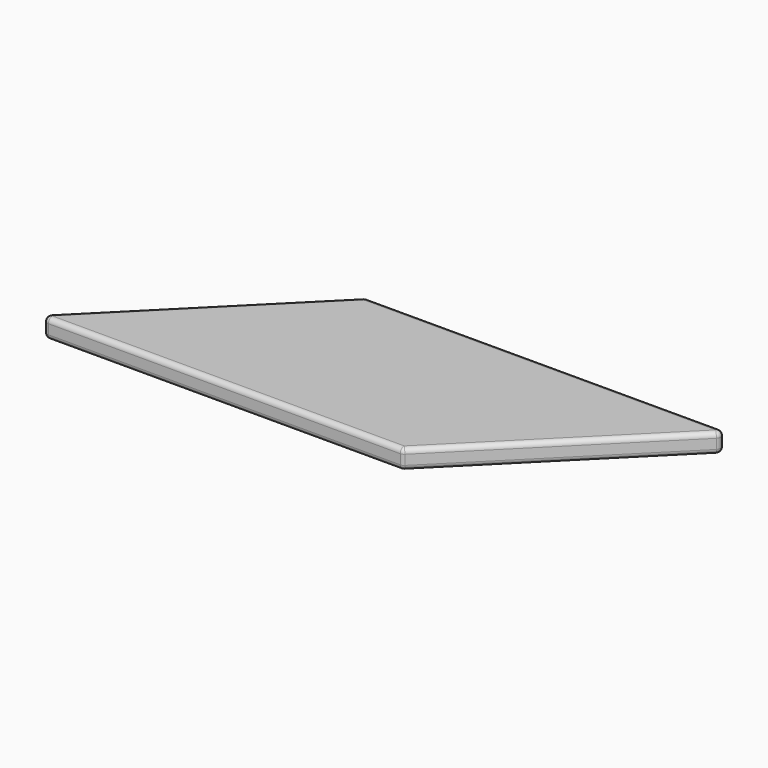
from build123d import *

# Parameters (mm, degrees)
PAD_DEPTH = 4
FILLET_R  = 1


with BuildPart() as part:
    # Sketch → Pad (new body)
    with BuildSketch(Plane.XY):
        Polygon((0, 0), (75, 0), (112.5, 37.5), (37.5, 37.5), align=None)
    extrude(amount=PAD_DEPTH)

    # Fillet
    fillet_edges = [part.edges().sort_by_distance(p)[0] for p in [
        (0, 0, 2),
        (75, 0, 2),
        (37.5, 0, 0),
        (37.5, 0, 4),
        (112.5, 37.5, 2),
        (93.75, 18.75, 0),
        (93.75, 18.75, 4),
        (37.5, 37.5, 2),
        (75, 37.5, 0),
        (75, 37.5, 4),
        (18.75, 18.75, 0),
        (18.75, 18.75, 4),
    ]]
    fillet(fillet_edges, radius=FILLET_R)


solid = part.part
